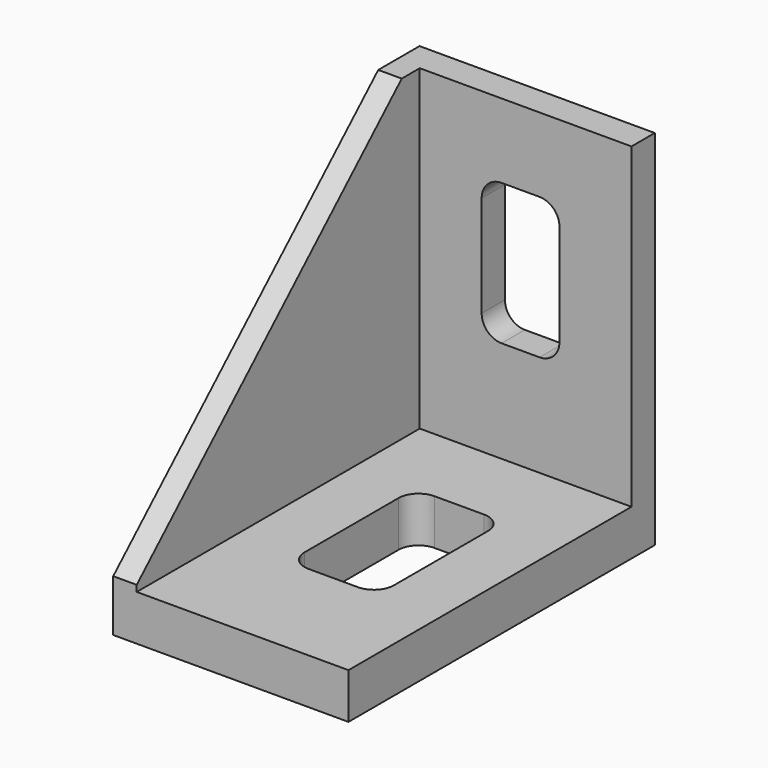
from build123d import *

# Parameters (mm, degrees)
F1_DEPTH = 29.9974
F3_DEPTH = 27.0002
F6_DEPTH = 5.811617
F8_DEPTH = 3.712296


with BuildPart() as f1:
    # F0 (on Right) → F1 (new body)
    with BuildSketch(Plane.YZ):
        Polygon((0, 6.607804), (0, 0), (48.823252, 0), (48.823252, 46.265662), (42.241033, 46.265662), align=None)
    extrude(amount=-F1_DEPTH)


with BuildPart() as f3:
    # F2 (on Right) → F3 (new body)
    with BuildSketch(Plane.YZ):
        Polygon((45.110956, 5.811617), (45.110956, 61.896294), (-13.766318, 5.811617), align=None)
    extrude(amount=-F3_DEPTH)


with BuildPart() as f1_1:
    add(f1.part)

    # F4: cut F3
    add(f3.part, mode=Mode.SUBTRACT)

    # F5 (on face) → F6 (cut, through all)
    with BuildSketch(Plane.XY.offset(5.811617)):
        with BuildLine():
            Line((-10.435018, 34.640817), (-16.748959, 34.640817))
            ThreePointArc((-16.748959, 34.640817), (-18.54501, 33.896868), (-19.288959, 32.100817))
            Line((-19.288959, 32.100817), (-19.288959, 17.100303))
            ThreePointArc((-19.288959, 17.100303), (-18.54501, 15.304251), (-16.748959, 14.560303))
            Line((-16.748959, 14.560303), (-10.435018, 14.560303))
            ThreePointArc((-10.435018, 14.560303), (-8.638967, 15.304251), (-7.895018, 17.100303))
            Line((-7.895018, 17.100303), (-7.895018, 32.100817))
            ThreePointArc((-7.895018, 32.100817), (-8.638967, 33.896868), (-10.435018, 34.640817))
        make_face()
    extrude(amount=-F6_DEPTH, mode=Mode.SUBTRACT)

    # F7 (on face) → F8 (cut, through all)
    with BuildSketch(Plane.XZ.offset(-45.110956)):
        with BuildLine():
            Line((-11.721431, 36.788322), (-16.565181, 36.788322))
            ThreePointArc((-16.565181, 36.788322), (-18.361232, 36.044373), (-19.105181, 34.248322))
            Line((-19.105181, 34.248322), (-19.105181, 21.318551))
            ThreePointArc((-19.105181, 21.318551), (-18.361232, 19.5225), (-16.565181, 18.778551))
            Line((-16.565181, 18.778551), (-11.721431, 18.778551))
            ThreePointArc((-11.721431, 18.778551), (-9.925379, 19.5225), (-9.181431, 21.318551))
            Line((-9.181431, 21.318551), (-9.181431, 34.248322))
            ThreePointArc((-9.181431, 34.248322), (-9.925379, 36.044373), (-11.721431, 36.788322))
        make_face()
    extrude(amount=-F8_DEPTH, mode=Mode.SUBTRACT)


solid = f1_1.part
